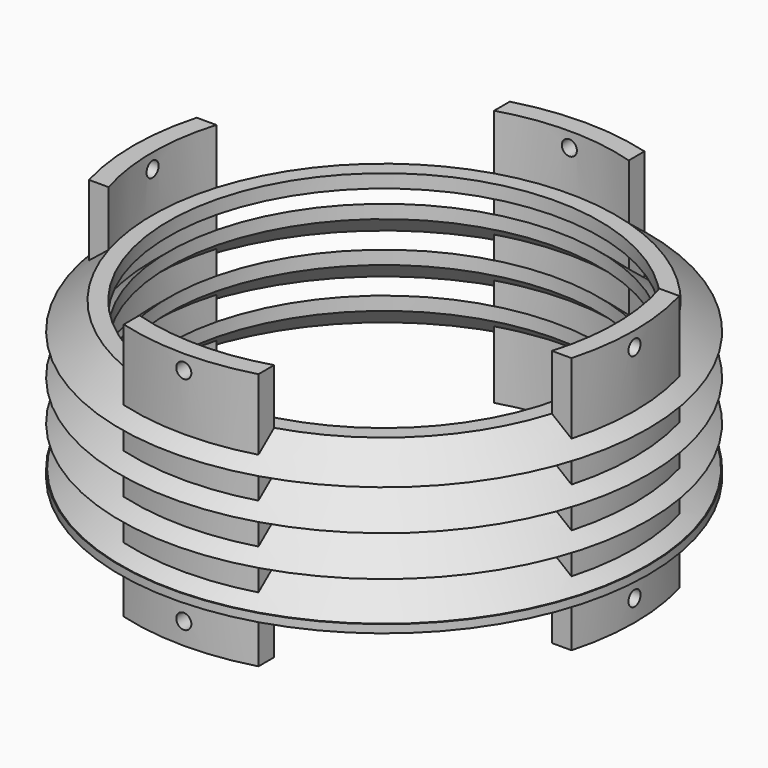
from build123d import *

# Parameters (mm, degrees)
CYLINDER168_R               = 2.8
CYLINDER168_DEPTH           = 300
CYLINDER168_ROLL_ANGLE      = 90
CYLINDER168_PLACEMENT_ANGLE = 45
CYLINDER167_R               = 2.8
CYLINDER167_DEPTH           = 300
CYLINDER167_ROLL_ANGLE      = 90
CYLINDER167_PLACEMENT_ANGLE = -45
CYLINDER165_R               = 2.8
CYLINDER165_DEPTH           = 300
CYLINDER166_R               = 2.8
CYLINDER166_DEPTH           = 300
CYLINDER162_R               = 2.8
CYLINDER162_DEPTH           = 300
CYLINDER163_R               = 2.8
CYLINDER163_DEPTH           = 300
CYLINDER164_R               = 80
CYLINDER164_DEPTH           = 100
EXTRUDE040_DEPTH            = 95.5
SKETCH078_R                 = 80
SKETCH077_R                 = 98
SKETCH076_R                 = 80
SKETCH075_R                 = 98
SKETCH082_R                 = 80
SKETCH081_R                 = 98
SKETCH080_R                 = 80
SKETCH079_R                 = 98
SKETCH086_R                 = 80
SKETCH085_R                 = 98
SKETCH084_R                 = 80
SKETCH083_R                 = 98
CYLINDER161_R               = 86
CYLINDER161_DEPTH           = 5
CYLINDER160_R               = 98
CYLINDER160_DEPTH           = 10
SKETCH090_R                 = 80
SKETCH089_R                 = 98
SKETCH088_R                 = 80
SKETCH087_R                 = 98
SKETCH093_R                 = 2.8
EXTRUDE042_DEPTH            = 20
CYLINDER169_R               = 2.13
CYLINDER169_DEPTH           = 300
CYLINDER170_R               = 2.13
CYLINDER170_DEPTH           = 300
TUBE012_R                   = 98
TUBE012_R_2                 = 94
TUBE012_DEPTH               = 65
SKETCH092_R                 = 98
SKETCH092_R_2               = 76
EXTRUDE041_DEPTH            = 5
FILLET011_R                 = 3
TUBE011_R                   = 98
TUBE011_R_2                 = 95
TUBE011_DEPTH               = 3


with BuildPart() as cylinder168:
    # Cylinder168 → Cylinder168 (new body)
    with BuildSketch(Plane.XY):
        Circle(CYLINDER168_R)
    extrude(amount=CYLINDER168_DEPTH)


with BuildPart() as cylinder168_1:
    # Cylinder168 roll: moved
    add(cylinder168.part.rotate(Axis((0, 0, 0), (1, 0, 0)), CYLINDER168_ROLL_ANGLE))


with BuildPart() as cylinder168_2:
    # Cylinder168 placement: moved
    add(cylinder168_1.part.moved(Location((-106.066017, -43.933983, 90))).rotate(Axis((-106.066017, -43.933983, 90), (0, 0, 1)), CYLINDER168_PLACEMENT_ANGLE))


with BuildPart() as m4cuts020:
    # Cylinder167 → Cylinder167 (new body)
    with BuildSketch(Plane.XY):
        Circle(CYLINDER167_R)
    extrude(amount=CYLINDER167_DEPTH)


with BuildPart() as m4cuts020_1:
    # Cylinder167 roll: moved
    add(m4cuts020.part.rotate(Axis((0, 0, 0), (1, 0, 0)), CYLINDER167_ROLL_ANGLE))


with BuildPart() as m4cuts020_2:
    # Cylinder167 placement: moved
    add(m4cuts020_1.part.moved(Location((106.066017, -43.933983, 90))).rotate(Axis((106.066017, -43.933983, 90), (0, 0, 1)), CYLINDER167_PLACEMENT_ANGLE))

    # Fusion114: union Cylinder168
    add(cylinder168_2.part)


with BuildPart() as m4cuts020_3:
    # Fusion114 placement: moved
    add(m4cuts020_2.part.moved(Location((0, 0, -82))))


with BuildPart() as cylinder165:
    # Cylinder165 → Cylinder165 (new body)
    with BuildSketch(Plane(origin=(0, 0, 90), x_dir=(1, 0, 0), z_dir=(0, -1, 0))):
        Circle(CYLINDER165_R)
    extrude(amount=CYLINDER165_DEPTH)


with BuildPart() as m4cuts021:
    # Cylinder166 → Cylinder166 (new body)
    with BuildSketch(Plane(origin=(-150, -150, 90), x_dir=(0, 1, 0), z_dir=(1, 0, 0))):
        Circle(CYLINDER166_R)
    extrude(amount=CYLINDER166_DEPTH)

    # Fusion113: union Cylinder165
    add(cylinder165.part)


with BuildPart() as m4cuts021_1:
    # Fusion113 placement: moved
    add(m4cuts021.part.moved(Location((0, 0, -82))))

    # Fusion115: union m4Cuts020
    add(m4cuts020_3.part)


with BuildPart() as cylinder162:
    # Cylinder162 → Cylinder162 (new body)
    with BuildSketch(Plane(origin=(0, 0, 90), x_dir=(1, 0, 0), z_dir=(0, -1, 0))):
        Circle(CYLINDER162_R)
    extrude(amount=CYLINDER162_DEPTH)


with BuildPart() as m4cuts018:
    # Cylinder163 → Cylinder163 (new body)
    with BuildSketch(Plane(origin=(-150, -150, 90), x_dir=(0, 1, 0), z_dir=(1, 0, 0))):
        Circle(CYLINDER163_R)
    extrude(amount=CYLINDER163_DEPTH)

    # Fusion110: union Cylinder162
    add(cylinder162.part)


with BuildPart() as obj1:
    # Cylinder164 → Cylinder164 (new body)
    with BuildSketch(Plane(origin=(0, -150, 0), x_dir=(1, 0, 0), z_dir=(0, 0, 1))):
        Circle(CYLINDER164_R)
    extrude(amount=CYLINDER164_DEPTH)

    # Fusion112: union m4Cuts018
    add(m4cuts018.part)


with BuildPart() as obj2:
    # Sketch091 → Extrude040 (new body)
    with BuildSketch(Plane.XY):
        with BuildLine():
            ThreePointArc((-89.576783, -125), (-93, -150), (-89.576783, -175))
            Line((-89.576783, -175), (-82.286086, -175))
            ThreePointArc((-82.286086, -125), (-86, -150), (-82.286086, -175))
            Line((-89.576783, -125), (-82.286086, -125))
        make_face()
        with BuildLine():
            ThreePointArc((25, -60.423217), (0, -57), (-25, -60.423217))
            Line((-25, -60.423217), (-25, -67.713914))
            ThreePointArc((25, -67.713914), (0, -64), (-25, -67.713914))
            Line((25, -60.423217), (25, -67.713914))
        make_face()
        with BuildLine():
            ThreePointArc((89.576783, -175), (93, -150), (89.576783, -125))
            Line((89.576783, -125), (82.286086, -125))
            ThreePointArc((82.286086, -175), (86, -150), (82.286086, -125))
            Line((89.576783, -175), (82.286086, -175))
        make_face()
        with BuildLine():
            ThreePointArc((-25, -239.576783), (0, -243), (25, -239.576783))
            Line((25, -239.576783), (25, -232.286086))
            ThreePointArc((-25, -232.286086), (0, -236), (25, -232.286086))
            Line((-25, -239.576783), (-25, -232.286086))
        make_face()
    extrude(amount=EXTRUDE040_DEPTH)


with BuildPart() as loft030:
    # Sketch078 → Loft018 section 0
    with BuildSketch(Plane.XY.offset(80)):
        with Locations((0, -150)):
            Circle(SKETCH078_R)
    # Sketch077 → Loft018 section 1
    with BuildSketch(Plane.XY.offset(65)):
        with Locations((0, -150)):
            Circle(SKETCH077_R)
    loft()


with BuildPart() as loft030_1:
    # Loft018 placement: moved
    add(loft030.part.moved(Location((0, 0, -20))))


with BuildPart() as loft025:
    # Sketch076 → Loft017 section 0
    with BuildSketch(Plane.XY.offset(80)):
        with Locations((0, -150)):
            Circle(SKETCH076_R)
    # Sketch075 → Loft017 section 1
    with BuildSketch(Plane.XY.offset(65)):
        with Locations((0, -150)):
            Circle(SKETCH075_R)
    loft()


with BuildPart() as loft025_1:
    # Loft017 placement: moved
    add(loft025.part.moved(Location((0, 0, -15))))

    # Cut062: cut Loft030
    add(loft030_1.part, mode=Mode.SUBTRACT)


with BuildPart() as loft032:
    # Sketch082 → Loft020 section 0
    with BuildSketch(Plane.XY.offset(80)):
        with Locations((0, -150)):
            Circle(SKETCH082_R)
    # Sketch081 → Loft020 section 1
    with BuildSketch(Plane.XY.offset(65)):
        with Locations((0, -150)):
            Circle(SKETCH081_R)
    loft()


with BuildPart() as loft032_1:
    # Loft020 placement: moved
    add(loft032.part.moved(Location((0, 0, -20))))


with BuildPart() as loft026:
    # Sketch080 → Loft019 section 0
    with BuildSketch(Plane.XY.offset(80)):
        with Locations((0, -150)):
            Circle(SKETCH080_R)
    # Sketch079 → Loft019 section 1
    with BuildSketch(Plane.XY.offset(65)):
        with Locations((0, -150)):
            Circle(SKETCH079_R)
    loft()


with BuildPart() as loft026_1:
    # Loft019 placement: moved
    add(loft026.part.moved(Location((0, 0, -15))))

    # Cut063: cut Loft032
    add(loft032_1.part, mode=Mode.SUBTRACT)


with BuildPart() as loft026_2:
    # Cut063 placement: moved
    add(loft026_1.part.moved(Location((0, 0, -15))))


with BuildPart() as loft034:
    # Sketch086 → Loft022 section 0
    with BuildSketch(Plane.XY.offset(80)):
        with Locations((0, -150)):
            Circle(SKETCH086_R)
    # Sketch085 → Loft022 section 1
    with BuildSketch(Plane.XY.offset(65)):
        with Locations((0, -150)):
            Circle(SKETCH085_R)
    loft()


with BuildPart() as loft034_1:
    # Loft022 placement: moved
    add(loft034.part.moved(Location((0, 0, -20))))


with BuildPart() as loft027:
    # Sketch084 → Loft021 section 0
    with BuildSketch(Plane.XY.offset(80)):
        with Locations((0, -150)):
            Circle(SKETCH084_R)
    # Sketch083 → Loft021 section 1
    with BuildSketch(Plane.XY.offset(65)):
        with Locations((0, -150)):
            Circle(SKETCH083_R)
    loft()


with BuildPart() as loft027_1:
    # Loft021 placement: moved
    add(loft027.part.moved(Location((0, 0, -15))))

    # Cut064: cut Loft034
    add(loft034_1.part, mode=Mode.SUBTRACT)


with BuildPart() as loft027_2:
    # Cut064 placement: moved
    add(loft027_1.part.moved(Location((0, 0, -30))))


with BuildPart() as cylinder161:
    # Cylinder161 → Cylinder161 (new body)
    with BuildSketch(Plane(origin=(0, -150, 70), x_dir=(1, 0, 0), z_dir=(0, 0, 1))):
        Circle(CYLINDER161_R)
    extrude(amount=CYLINDER161_DEPTH)


with BuildPart() as cylinder160:
    # Cylinder160 → Cylinder160 (new body)
    with BuildSketch(Plane(origin=(0, -150, 75), x_dir=(1, 0, 0), z_dir=(0, 0, 1))):
        Circle(CYLINDER160_R)
    extrude(amount=CYLINDER160_DEPTH)


with BuildPart() as loft036:
    # Sketch090 → Loft024 section 0
    with BuildSketch(Plane.XY.offset(80)):
        with Locations((0, -150)):
            Circle(SKETCH090_R)
    # Sketch089 → Loft024 section 1
    with BuildSketch(Plane.XY.offset(65)):
        with Locations((0, -150)):
            Circle(SKETCH089_R)
    loft()


with BuildPart() as loft036_1:
    # Loft024 placement: moved
    add(loft036.part.moved(Location((0, 0, -20))))


with BuildPart() as obj3:
    # Sketch088 → Loft023 section 0
    with BuildSketch(Plane.XY.offset(80)):
        with Locations((0, -150)):
            Circle(SKETCH088_R)
    # Sketch087 → Loft023 section 1
    with BuildSketch(Plane.XY.offset(65)):
        with Locations((0, -150)):
            Circle(SKETCH087_R)
    loft()


with BuildPart() as obj3_1:
    # Loft023 placement: moved
    add(obj3.part.moved(Location((0, 0, -15))))

    # Cut065: cut Loft036
    add(loft036_1.part, mode=Mode.SUBTRACT)


with BuildPart() as obj3_2:
    # Cut065 placement: moved
    add(obj3_1.part.moved(Location((0, 0, 15))))

    # Cut066: cut Cylinder160
    add(cylinder160.part, mode=Mode.SUBTRACT)

    # Fusion108: union Cylinder161
    add(cylinder161.part)

    # Fusion109: union Loft025, Loft026, Loft027
    add(loft025_1.part)
    add(loft026_2.part)
    add(loft027_2.part)

    # Fusion111: union obj2
    add(obj2.part)

    # Cut067: cut obj1
    add(obj1.part, mode=Mode.SUBTRACT)

    # Cut068: cut m4Cuts021
    add(m4cuts021_1.part, mode=Mode.SUBTRACT)


with BuildPart() as m4heatsetvercuts007:
    # Sketch093 → Extrude042 (new body)
    with BuildSketch(Plane.XY):
        with Locations((0, -68)):
            Circle(SKETCH093_R)
        with Locations((82, -150)):
            Circle(SKETCH093_R)
        with Locations((0, -232)):
            Circle(SKETCH093_R)
        with Locations((-82, -150)):
            Circle(SKETCH093_R)
    extrude(amount=EXTRUDE042_DEPTH)


with BuildPart() as m4heatsetvercuts007_1:
    # Extrude042 placement: moved
    add(m4heatsetvercuts007.part.moved(Location((0, 0, -193))))


with BuildPart() as cylinder169:
    # Cylinder169 → Cylinder169 (new body)
    with BuildSketch(Plane(origin=(0, 0, 90), x_dir=(1, 0, 0), z_dir=(0, -1, 0))):
        Circle(CYLINDER169_R)
    extrude(amount=CYLINDER169_DEPTH)


with BuildPart() as m4cuts022:
    # Cylinder170 → Cylinder170 (new body)
    with BuildSketch(Plane(origin=(-150, -150, 90), x_dir=(0, 1, 0), z_dir=(1, 0, 0))):
        Circle(CYLINDER170_R)
    extrude(amount=CYLINDER170_DEPTH)

    # Fusion117: union Cylinder169
    add(cylinder169.part)


with BuildPart() as m4cuts022_1:
    # Fusion117 placement: moved
    add(m4cuts022.part.moved(Location((0, 0, -321))))


with BuildPart() as tube012:
    # Tube012 → Tube012 (new body)
    with BuildSketch(Plane(origin=(0, -150, -125), x_dir=(1, 0, 0), z_dir=(0, 0, 1))):
        Circle(TUBE012_R)
        Circle(TUBE012_R_2, mode=Mode.SUBTRACT)
    extrude(amount=TUBE012_DEPTH)


with BuildPart() as level5s006:
    # Sketch092 → Extrude041 (new body)
    with BuildSketch(Plane.XY):
        with Locations((0, -150)):
            Circle(SKETCH092_R)
        with Locations((0, -150)):
            Circle(SKETCH092_R_2, mode=Mode.SUBTRACT)
    extrude(amount=EXTRUDE041_DEPTH)


with BuildPart() as level5s006_1:
    # Extrude041 placement: moved
    add(level5s006.part.moved(Location((0, 0, -65))))

    # Fusion116: union Tube012
    add(tube012.part)


with BuildPart() as level5s006_2:
    # Fusion116 placement: moved
    add(level5s006_1.part.moved(Location((0, 0, -125))))

    # Cut069: cut m4Cuts022
    add(m4cuts022_1.part, mode=Mode.SUBTRACT)

    # Cut070: cut m4HeatSetVerCuts007
    add(m4heatsetvercuts007_1.part, mode=Mode.SUBTRACT)

    # Fillet011
    fillet011_edges = [level5s006_2.edges().sort_by_distance(p)[0] for p in [
        (-98, -150, -185),
        (-98, -150, -250),
        (-94, -150, -190),
    ]]
    fillet(fillet011_edges, radius=FILLET011_R)


with BuildPart() as obj4:
    # Tube011 → Tube011 (new body)
    with BuildSketch(Plane(origin=(0, -150, -188), x_dir=(1, 0, 0), z_dir=(0, 0, 1))):
        Circle(TUBE011_R)
        Circle(TUBE011_R_2, mode=Mode.SUBTRACT)
    extrude(amount=TUBE011_DEPTH)

    # Cut071: cut level5s006
    add(level5s006_2.part, mode=Mode.SUBTRACT)


with BuildPart() as obj4_1:
    # Cut071 placement: moved
    add(obj4.part.moved(Location((0, 0, 205.25))))

    # Fusion118: union obj3
    add(obj3_2.part)


solid = obj4_1.part
